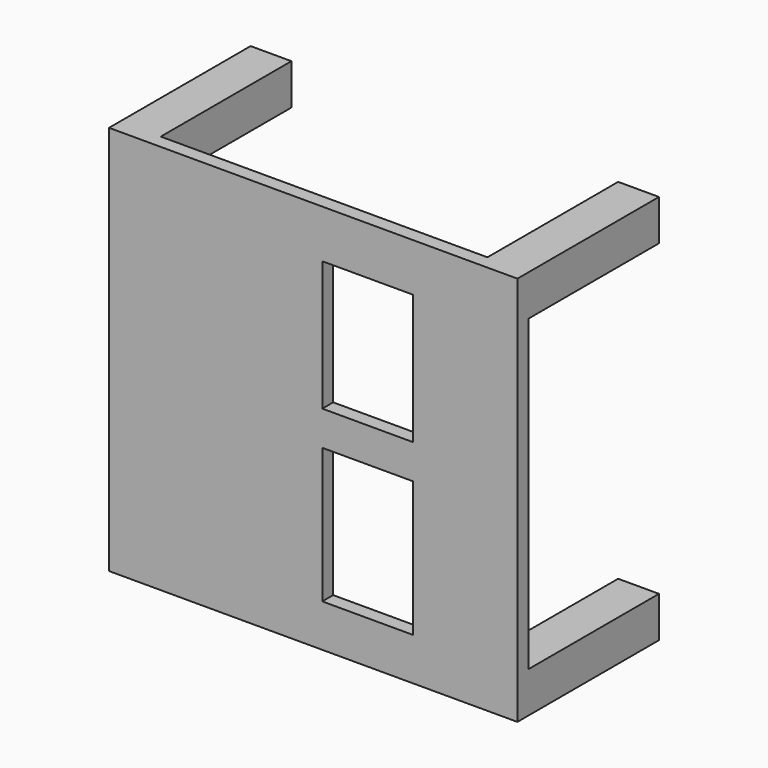
from build123d import *

# Parameters (mm, degrees)
F0_W     = 10
F0_H     = 14.9
F0_H_2   = 14.3
F1_DEPTH = 1.5
F2_W     = 4.5
F2_H     = 4.5
F3_DEPTH = 18


with BuildPart() as f1:
    # F0 (on Front) → F1 (new body)
    with BuildSketch(Plane.XZ):
        Polygon((0, 43), (0, 0), (45, 0), (45, 43), (33.5, 43), (23.5, 43), align=None)
        with Locations((28.5, 12.15)):
            Rectangle(F0_W, F0_H, mode=Mode.SUBTRACT)
        with Locations((28.5, 30.55)):
            Rectangle(F0_W, F0_H_2, mode=Mode.SUBTRACT)
    extrude(amount=F1_DEPTH)

    # F2 (on face) → F3 (join)
    with BuildSketch(Plane(origin=(0, 0, 0), x_dir=(-1, 0, 0), z_dir=(0, 1, 0))):
        with Locations((-2.25, 40.75)):
            Rectangle(F2_W, F2_H)
        with Locations((-2.25, 2.25)):
            Rectangle(F2_W, F2_H)
        with Locations((-42.75, 2.25)):
            Rectangle(F2_W, F2_H)
        with Locations((-42.75, 40.75)):
            Rectangle(F2_W, F2_H)
    extrude(amount=F3_DEPTH)


solid = f1.part
